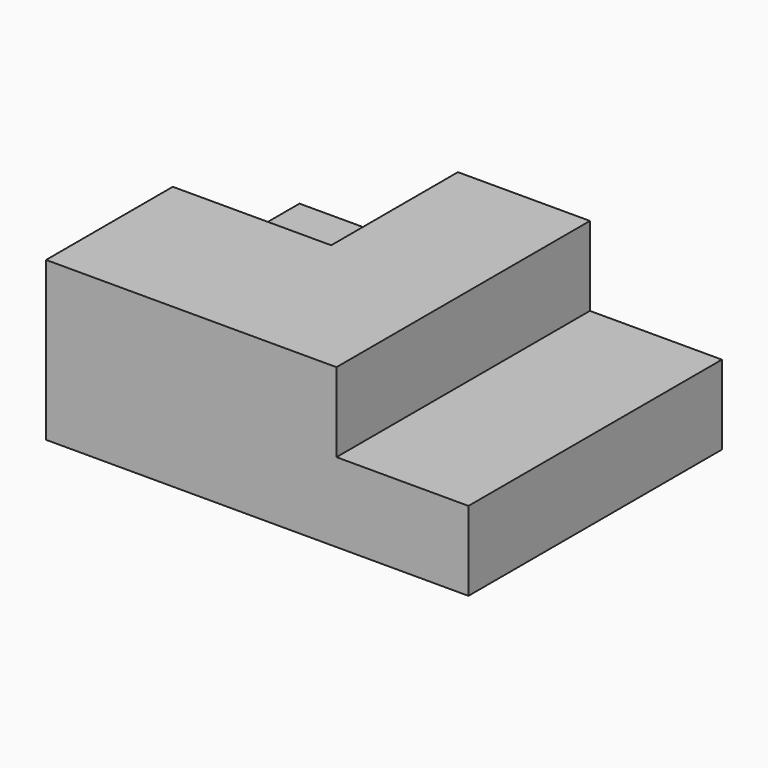
from build123d import *

# Parameters (mm, degrees)
F0_W     = 30
F0_H     = 30
F0_W_2   = 25
F0_H_2   = 60
F1_DEPTH = 30
F2_W     = 30
F2_H     = 30
F2_W_2   = 25
F2_H_2   = 60
F3_DEPTH = 15


with BuildPart() as f1:
    # F0 (on Top) → F1 (new body)
    with BuildSketch(Plane.XY):
        Polygon((0, 30), (0, 0), (55, 0), (55, 60), (30, 60), (30, 30), align=None)
        with Locations((15, 45)):
            Rectangle(F0_W, F0_H)
        with Locations((67.5, 30)):
            Rectangle(F0_W_2, F0_H_2)
    extrude(amount=F1_DEPTH)

    # F2 (on face) → F3 (cut)
    with BuildSketch(Plane.XY.offset(30)):
        with Locations((15, 45)):
            Rectangle(F2_W, F2_H)
        with Locations((67.5, 30)):
            Rectangle(F2_W_2, F2_H_2)
    extrude(amount=-F3_DEPTH, mode=Mode.SUBTRACT)


solid = f1.part
